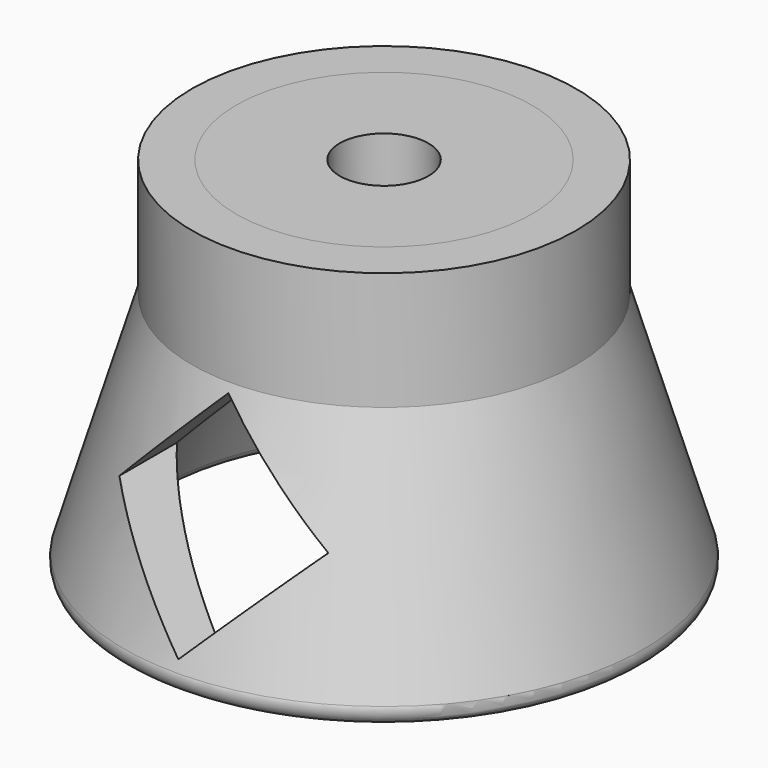
from build123d import *

# Parameters (mm, degrees)
F2_W     = 7
F2_H     = 6
F6_R     = 6.25
F7_DEPTH = 30
F9_DEPTH = 80


with BuildPart() as f3:
    # F2 (on Front) → F3 (revolve)
    with BuildSketch(Plane.XZ):
        with Locations((-6.5, 3)):
            Rectangle(F2_W, F2_H)
    revolve(axis=Axis((0, 0, 7.569397334), (0, 0, 1)))

    # F6 (on face) → F7 (cut)
    with BuildSketch(Plane.XY.offset(6)):
        Circle(F6_R)
    extrude(amount=F7_DEPTH, mode=Mode.SUBTRACT)


with BuildPart() as f5:
    # F4 (on Front) → F5 (revolve)
    with BuildSketch(Plane.XZ):
        with BuildLine():
            Line((-8, 0), (-10, 0))
            Line((-10, 0), (-10, 6))
            Line((-10, 6), (-13, 6))
            Line((-13, 6), (-13, -2))
            Line((-13, -2), (-17.6147240826, -17.4131784359))
            ThreePointArc((-17.6147240826, -17.4131784359), (-17.4588689647, -18.2971509172), (-16.6567400585, -18.7))
            Line((-16.6567400585, -18.7), (-15.6651337218, -18.7))
            ThreePointArc((-15.6651337218, -18.7), (-15.1113174927, -18.532638928), (-14.7428758192, -18.0865751688))
            Line((-14.7428758192, -18.0865751688), (-8, -2))
            Line((-8, -2), (-8, 0))
        make_face()
    revolve(axis=Axis((0, 0, 7.569397334), (0, 0, 1)))

    # F8 (on Front) → F9 (cut)
    with BuildSketch(Plane.XZ):
        Polygon((7.0710678119, -9.6289321881), (0, -2.5578643763), (-7.0710678119, -9.6289321881), (0, -16.7), align=None)
    extrude(amount=F9_DEPTH, mode=Mode.SUBTRACT)


solid = Compound([f3.part, f5.part])
